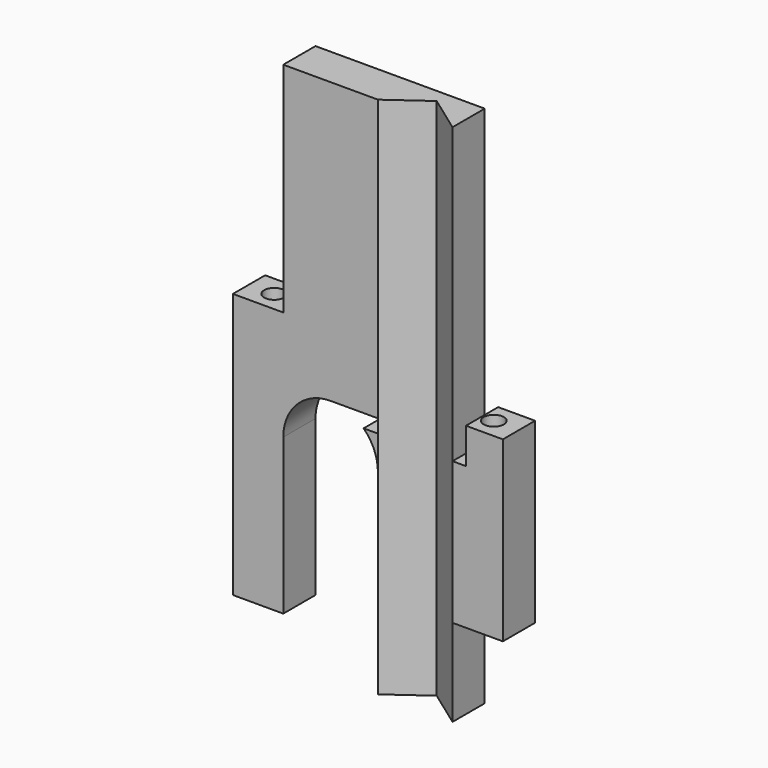
from build123d import *

# Parameters (mm, degrees)
PAD013_DEPTH    = 6
POCKET007_DEPTH = 78.001
SKETCH019_W     = 2
SKETCH019_H     = 5.3
POCKET008_DEPTH = 6.001
SKETCH020_W     = 11.115
SKETCH020_H     = 2
POCKET009_DEPTH = 2
SKETCH021_R     = 1.5
POCKET010_DEPTH = 72.001
SKETCH022_R     = 1.5
POCKET011_DEPTH = 65.001


with BuildPart() as part:
    # Sketch017 → Pad013 (new body)
    with BuildSketch(Plane.XZ):
        with BuildLine():
            Line((-15.9, 6), (-15.9, 29.15))
            ThreePointArc((-1.8, 29.15), (-8.85, 36.2), (-15.9, 29.15))
            Line((-1.8, 0), (-1.8, 29.15))
            Line((9.315, 0), (-1.8, 0))
            Line((9.315, 0), (9.315, 13))
            Line((9.315, 13), (16.815, 13))
            Line((16.815, 13), (16.815, 39.5))
            Line((16.815, 39.5), (9.315, 39.5))
            Line((9.315, 39.5), (9.315, 78))
            Line((9.315, 78), (-15.9, 78))
            Line((-15.9, 78), (-15.9, 45.5))
            Line((-23.4, 45.5), (-15.9, 45.5))
            Line((-23.4, 6), (-23.4, 45.5))
            Line((-23.4, 6), (-15.9, 6))
        make_face()
    extrude(amount=PAD013_DEPTH)

    # Sketch018 (on Face5 of Pad013) → Pocket007 (cut, through all)
    with BuildSketch(Plane(origin=(0, 0, 0), x_dir=(1, 0, 0), z_dir=(0, 0, -1))):
        Polygon((-1.8, 6), (3.7575, 2), (9.315, 6), align=None)
    extrude(amount=-POCKET007_DEPTH, mode=Mode.SUBTRACT)

    # Sketch019 (on Face5 of Pocket007) → Pocket008 (cut, through all)
    with BuildSketch(Plane.XZ.offset(6)):
        with BuildLine():
            Line((-8.8500001165, 36.2), (-1.8, 36.2))
            Line((-1.8, 36.2), (-1.8, 34.2))
            Line((-1.8, 34.2), (-3.9306504495, 34.2))
            ThreePointArc((-3.9306504495, 34.2), (-6.1948164445, 35.6808881698), (-8.8500001165, 36.2))
        make_face()
        with Locations((10.315, 36.85)):
            Rectangle(SKETCH019_W, SKETCH019_H)
    extrude(amount=-POCKET008_DEPTH, mode=Mode.SUBTRACT)

    # Sketch020 (on Face4 of Pocket008) → Pocket009 (cut)
    with BuildSketch(Plane(origin=(0, 0, 0), x_dir=(1, 0, 0), z_dir=(0, 1, 0))):
        with Locations((3.7575, -35.2)):
            Rectangle(SKETCH020_W, SKETCH020_H)
    extrude(amount=-POCKET009_DEPTH, mode=Mode.SUBTRACT)

    # Sketch021 (on Face1 of Pocket009) → Pocket010 (cut, through all)
    with BuildSketch(Plane(origin=(0, 0, 6), x_dir=(1, 0, 0), z_dir=(0, 0, -1))):
        with Locations((-19.65, 3)):
            Circle(SKETCH021_R)
    extrude(amount=-POCKET010_DEPTH, mode=Mode.SUBTRACT)

    # Sketch022 (on Face31 of Pocket010) → Pocket011 (cut, through all)
    with BuildSketch(Plane(origin=(0, 0, 13), x_dir=(1, 0, 0), z_dir=(0, 0, -1))):
        with Locations((13.065, 3)):
            Circle(SKETCH022_R)
    extrude(amount=-POCKET011_DEPTH, mode=Mode.SUBTRACT)


with BuildPart() as part_1:
    # Body003 placement: moved
    add(part.part.moved(Location((0, -70, 0))))


solid = part_1.part
